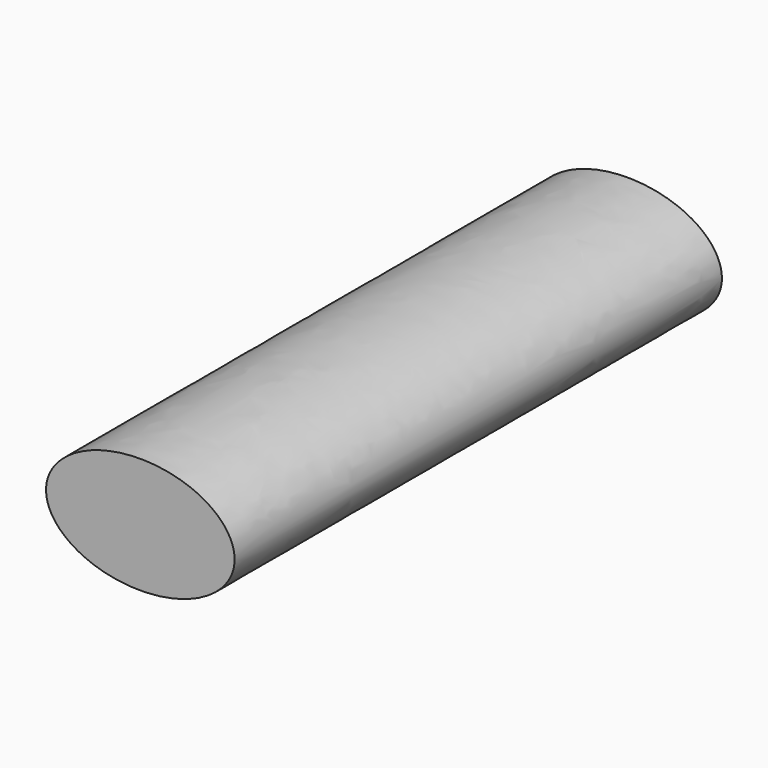
from build123d import *

# Parameters (mm, degrees)
F1_DEPTH = 66.675


with BuildPart() as f1:
    # F0 (on Front) → F1 (new body)
    with BuildSketch(Plane.XZ):
        with BuildLine():
            add(Edge.make_bspline(
                [(10.31875, 0), (10.31875, 10.998523), (-5.159375, 5.499261), (-20.6375, 0), (-5.159375, -5.499261), (10.31875, -10.998523), (10.31875, 0)],
                knots=[0, 0, 0, 2.094395, 2.094395, 4.18879, 4.18879, 6.283185, 6.283185, 6.283185], degree=2, weights=[1, 0.5, 1, 0.5, 1, 0.5, 1]))
        make_face()
    extrude(amount=-F1_DEPTH)


solid = f1.part
